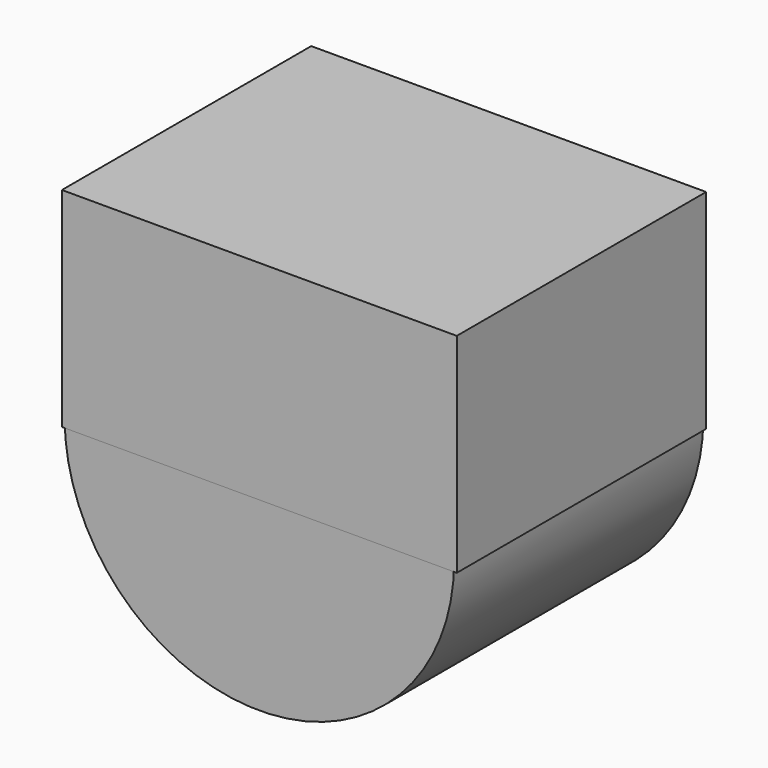
from build123d import *

# Parameters (mm, degrees)
F0_R     = 15.875
F2_DEPTH = 25.4
F1_W     = 32.1861840785
F1_H     = 17.0040223747


with BuildPart() as f2:
    # F0 (on Front) → F2 (new body)
    with BuildSketch(Plane.XZ):
        Circle(F0_R)
    extrude(amount=F2_DEPTH)


with BuildPart() as f2b:
    # F1 (on Front) → F2, piece 2 (new body)
    with BuildSketch(Plane.XZ):
        with Locations((0, 7.7429031953)):
            Rectangle(F1_W, F1_H)
    extrude(amount=F2_DEPTH)


solid = Compound([f2.part, f2b.part])
